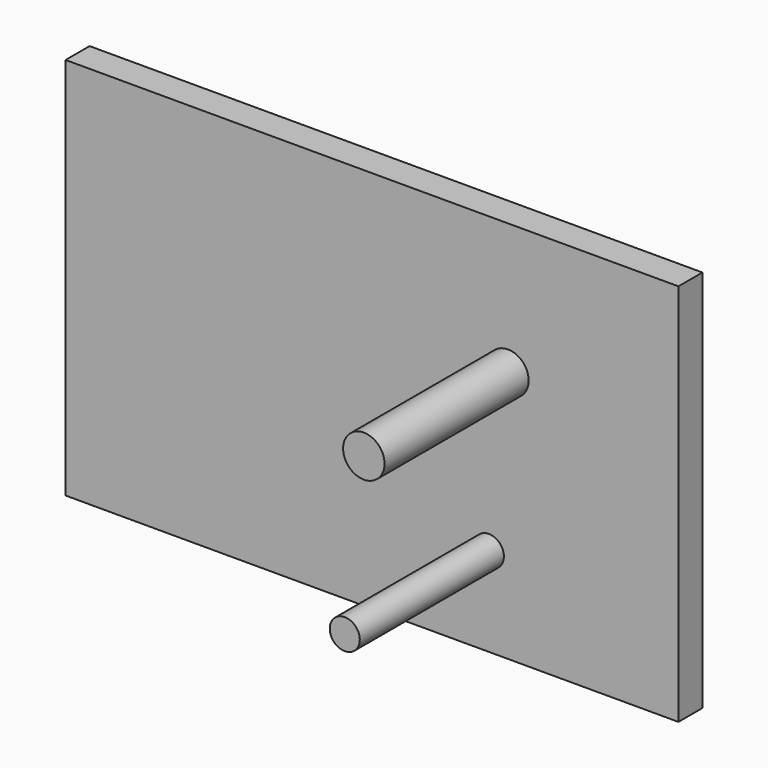
from build123d import *

# Parameters (mm, degrees)
F0_W     = 259.227424
F0_H     = 162.200198
F1_DEPTH = 12.7
F2_R     = 8.763
F3_DEPTH = 76.2
F4_R     = 6.35
F5_DEPTH = 76.2


with BuildPart() as f1:
    # F0 (on Front) → F1 (new body)
    with BuildSketch(Plane.XZ):
        Rectangle(F0_W, F0_H)
    extrude(amount=F1_DEPTH)

    # F2 (on face) → F3 (join)
    with BuildSketch(Plane.XZ.offset(12.7)):
        with Locations((57.503741, 25.405739)):
            Circle(F2_R)
    extrude(amount=F3_DEPTH)

    # F4 (on face) → F5 (join)
    with BuildSketch(Plane.XZ.offset(12.7)):
        with Locations((49.444617, -43.506545)):
            Circle(F4_R)
    extrude(amount=F5_DEPTH)


solid = f1.part
